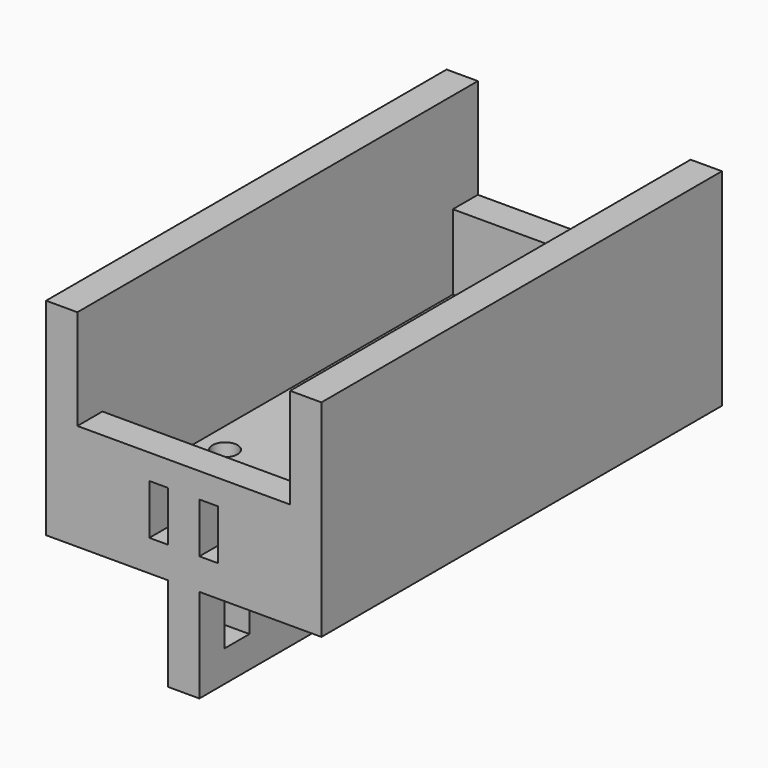
from build123d import *

# Parameters (mm, degrees)
F1_DEPTH  = 28
F0_W      = 34
F0_H      = 70
F0_R      = 2
F0_H_2    = 5
F2_DEPTH  = 5
F3_DEPTH  = 12
F0_W_2    = 5
F4_DEPTH  = 5
F5_DEPTH  = 28
F6_DEPTH  = 12
F7_W      = 5
F7_H      = 80
F8_DEPTH  = 15
F9_W      = 5
F9_H      = 9
F10_DEPTH = 24.501
F11_W     = 3
F11_H     = 8
F12_DEPTH = 80.001
F13_DEPTH = 24.501


with BuildPart() as f1:
    # F0 (on Top) → F1 (new body)
    with BuildSketch(Plane.XY):
        Polygon((-17, 37.5), (-22, 37.5), (-22, -37.5), (-17, -37.5), (-17, -32.5), align=None)
        Polygon((22, 37.5), (17, 37.5), (17, -32.5), (17, -37.5), (22, -37.5), align=None)
    extrude(amount=F1_DEPTH)

    # F0 (on Top) → F2 (join)
    with BuildSketch(Plane.XY):
        Polygon((-17, 37.5), (-22, 37.5), (-22, -37.5), (-17, -37.5), (-17, -32.5), align=None)
        with Locations((0, 2.5)):
            Rectangle(F0_W, F0_H)
        with Locations((-13, -13)):
            Circle(F0_R, mode=Mode.SUBTRACT)
        with Locations((13, -13)):
            Circle(F0_R, mode=Mode.SUBTRACT)
        with Locations((-13, 13)):
            Circle(F0_R, mode=Mode.SUBTRACT)
        with Locations((13, 13)):
            Circle(F0_R, mode=Mode.SUBTRACT)
        Polygon((22, 37.5), (17, 37.5), (17, -32.5), (17, -37.5), (22, -37.5), align=None)
        with Locations((0, -35)):
            Rectangle(F0_W, F0_H_2)
    extrude(amount=-F2_DEPTH)

    # F0 (on Top) → F3 (join)
    with BuildSketch(Plane.XY):
        with Locations((0, -35)):
            Rectangle(F0_W, F0_H_2)
    extrude(amount=F3_DEPTH)

    # F0 (on Top) → F4 (join, through all)
    with BuildSketch(Plane.XY):
        with Locations((19.5, 40)):
            Rectangle(F0_W_2, F0_H_2)
        with Locations((0, 40)):
            Rectangle(F0_W, F0_H_2)
        with Locations((-19.5, 40)):
            Rectangle(F0_W_2, F0_H_2)
    extrude(amount=-F4_DEPTH)

    # F0 (on Top) → F5 (join, through all)
    with BuildSketch(Plane.XY):
        with Locations((19.5, 40)):
            Rectangle(F0_W_2, F0_H_2)
        with Locations((-19.5, 40)):
            Rectangle(F0_W_2, F0_H_2)
    extrude(amount=F5_DEPTH)

    # F0 (on Top) → F6 (join)
    with BuildSketch(Plane.XY):
        with Locations((0, 40)):
            Rectangle(F0_W, F0_H_2)
    extrude(amount=F6_DEPTH)

    # F7 (on face) → F8 (join)
    with BuildSketch(Plane(origin=(0, 0, -5), x_dir=(1, 0, 0), z_dir=(0, 0, -1))):
        with Locations((0, -2.5)):
            Rectangle(F7_W, F7_H)
    extrude(amount=F8_DEPTH)

    # F9 (on face) → F10 (cut, through all)
    with BuildSketch(Plane.YZ.offset(2.5)):
        with Locations((-30, -10.5)):
            Rectangle(F9_W, F9_H)
    extrude(amount=-F10_DEPTH, mode=Mode.SUBTRACT)

    # F11 (on face) → F12 (cut, through all)
    with BuildSketch(Plane.XZ.offset(37.5)):
        with Locations((-4, 4)):
            Rectangle(F11_W, F11_H)
        with Locations((4, 4)):
            Rectangle(F11_W, F11_H)
    extrude(amount=-F12_DEPTH, mode=Mode.SUBTRACT)

    # F9 (on face) → F13 (cut, through all)
    with BuildSketch(Plane.YZ.offset(2.5)):
        with Locations((35, -10.5)):
            Rectangle(F9_W, F9_H)
    extrude(amount=-F13_DEPTH, mode=Mode.SUBTRACT)


solid = f1.part
